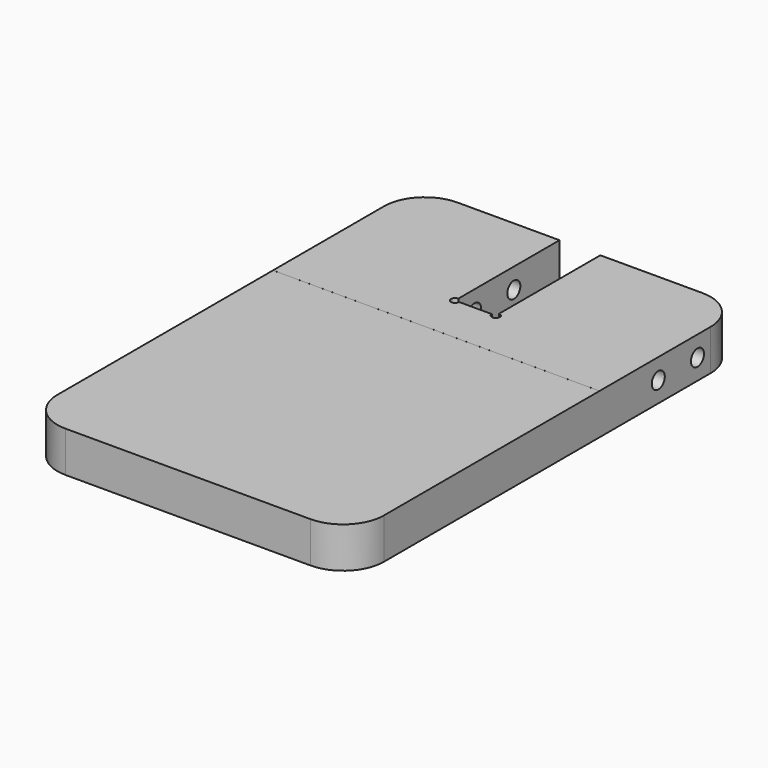
from build123d import *

# Parameters (mm, degrees)
F1_DEPTH = 25
F2_R     = 5
F3_DEPTH = 200.001
F5_DEPTH = 0.01


with BuildPart() as f1:
    # F0 (on Top) → F1 (new body)
    with BuildSketch(Plane.XY):
        with BuildLine():
            Line((-12.5, 150), (-75, 150))
            ThreePointArc((-75, 150), (-92.67767, 142.67767), (-100, 125))
            Line((-100, 125), (-100, -125))
            ThreePointArc((-100, -125), (-92.67767, -142.67767), (-75, -150))
            Line((-75, -150), (75, -150))
            ThreePointArc((75, -150), (92.67767, -142.67767), (100, -125))
            Line((100, -125), (100, 125))
            ThreePointArc((100, 125), (92.67767, 142.67767), (75, 150))
            Line((75, 150), (12.5, 150))
            Line((12.5, 150), (12.5, 72.5))
            ThreePointArc((12.5, 72.5), (14.267767, 68.232233), (10, 70))
            Line((10, 70), (-10, 70))
            ThreePointArc((-10, 70), (-14.267767, 68.232233), (-12.5, 72.5))
            Line((-12.5, 72.5), (-12.5, 150))
        make_face()
    extrude(amount=F1_DEPTH)

    # F2 (on face) → F3 (cut, through all)
    with BuildSketch(Plane(origin=(-100, 0, 0), x_dir=(0, -1, 0), z_dir=(-1, 0, 0))):
        with Locations((-115, 12.5)):
            Circle(F2_R)
        with Locations((-85, 12.5)):
            Circle(F2_R)
    extrude(amount=-F3_DEPTH, mode=Mode.SUBTRACT)

    # F4 (on face) → F5 (cut)
    with BuildSketch(Plane.XY.offset(25)):
        with BuildLine():
            ThreePointArc((-100, -125), (-92.67767, -142.67767), (-75, -150))
            Line((-75, -150), (75, -150))
            ThreePointArc((75, -150), (92.67767, -142.67767), (100, -125))
            Line((100, -125), (100, 40))
            Line((100, 40), (-100, 40))
            Line((-100, 40), (-100, -125))
        make_face()
    extrude(amount=-F5_DEPTH, mode=Mode.SUBTRACT)


solid = f1.part
